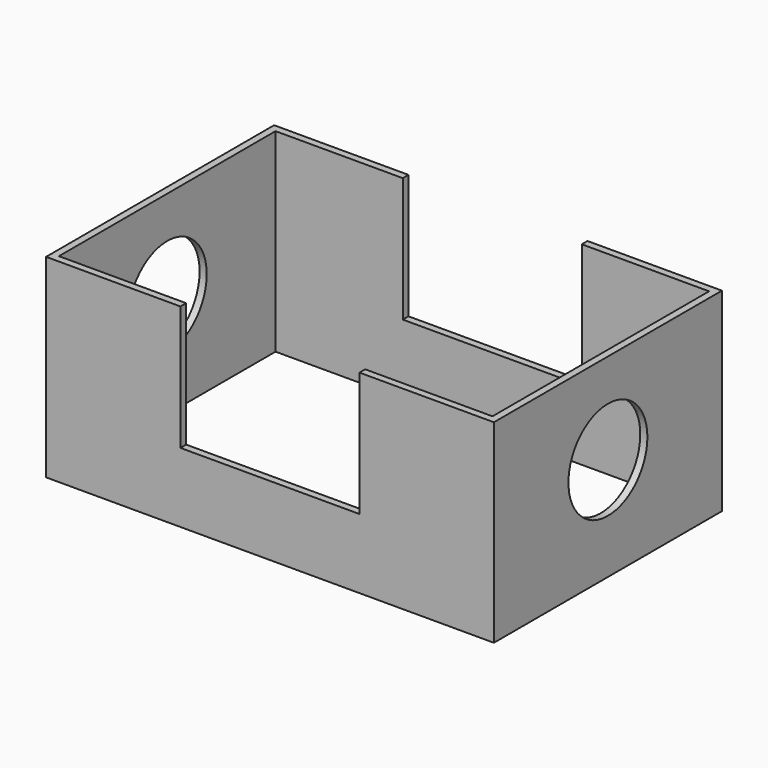
from build123d import *

# Parameters (mm, degrees)
F0_W     = 159.349978
F0_H     = 101.423756
F1_DEPTH = 69.088
F2_T     = -2.54
F3_W     = 63.709832
F3_H     = 88.611978
F4_DEPTH = 101.424755
F5_R     = 17.562361
F6_DEPTH = 159.350978


with BuildPart() as f1:
    # F0 (on Top) → F1 (new body)
    with BuildSketch(Plane.XY):
        Rectangle(F0_W, F0_H)
    extrude(amount=F1_DEPTH)

    # F2
    f2_openings = [f1.faces().sort_by_distance(p)[0] for p in [
        (0, 0, 69.088),
        (0, 0, 0),
    ]]
    offset(amount=F2_T, openings=f2_openings)

    # F3 (on face) → F4 (cut, through all)
    with BuildSketch(Plane.XZ.offset(50.711878)):
        with Locations((0, 69.088)):
            Rectangle(F3_W, F3_H)
    extrude(amount=-F4_DEPTH, mode=Mode.SUBTRACT)

    # F5 (on face) → F6 (cut, through all)
    with BuildSketch(Plane.YZ.offset(79.674989)):
        with Locations((0, 36.715534)):
            Circle(F5_R)
    extrude(amount=-F6_DEPTH, mode=Mode.SUBTRACT)


solid = f1.part
